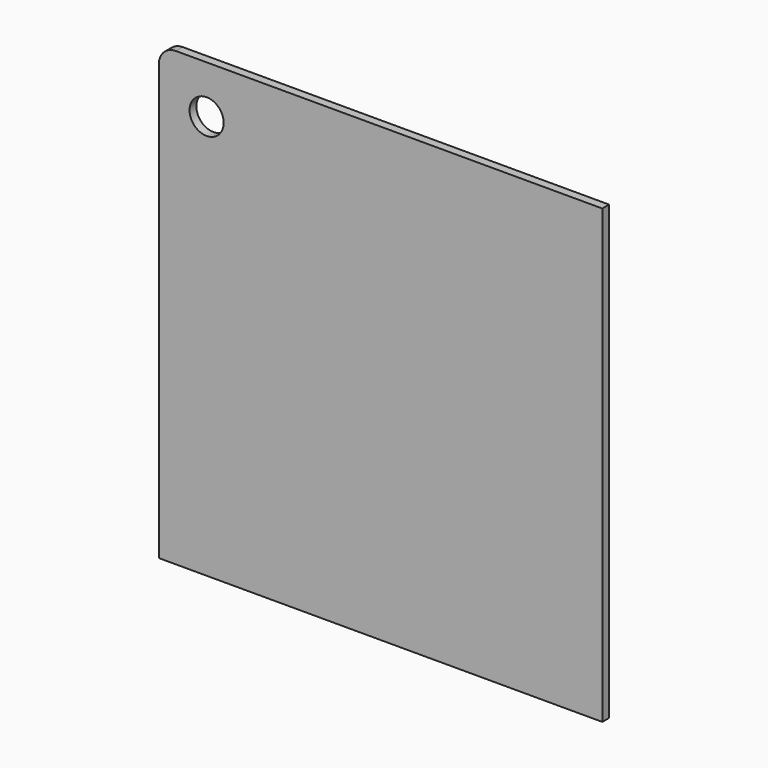
from build123d import *

# Parameters (mm, degrees)
F0_W     = 330.2
F0_H     = 336.55
F1_DEPTH = 6.35
F2_R     = 12.7
F3_R     = 12.7
F4_DEPTH = 25.4


with BuildPart() as f1:
    # F0 (on Front) → F1 (new body)
    with BuildSketch(Plane.XZ):
        with Locations((-14.795402, 29.196472)):
            Rectangle(F0_W, F0_H)
    extrude(amount=-F1_DEPTH)

    # F2
    f2_edges = [f1.edges().sort_by_distance(p)[0] for p in [
        (-179.895402, 3.175, 197.471472),
    ]]
    fillet(f2_edges, radius=F2_R)

    # F3 (on face) → F4 (cut)
    with BuildSketch(Plane.XZ):
        with Locations((-144.335402, 161.911472)):
            Circle(F3_R)
    extrude(amount=-F4_DEPTH, mode=Mode.SUBTRACT)


solid = f1.part
